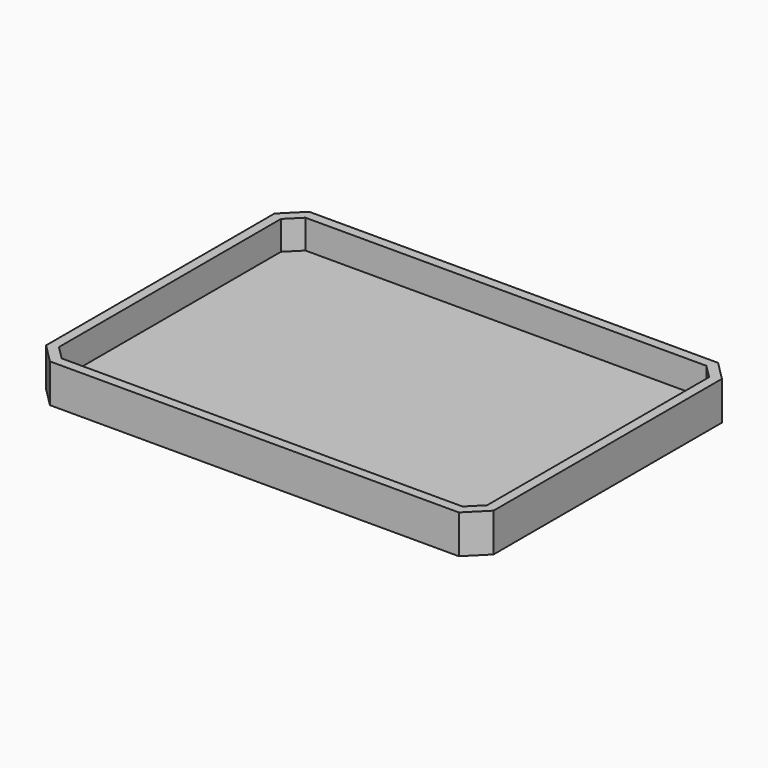
from build123d import *

# Parameters (mm, degrees)
F0_W     = 116
F0_H     = 84
F1_DEPTH = 10
F2_SIZE  = 5
F3_T     = -2.5


with BuildPart() as f1:
    # F0 (on Top) → F1 (new body)
    with BuildSketch(Plane.XY):
        with Locations((-2.746954, 0.195384)):
            Rectangle(F0_W, F0_H)
    extrude(amount=-F1_DEPTH)

    # F2
    f2_edges = [f1.edges().sort_by_distance(p)[0] for p in [
        (55.253046, -41.804616, -5),
        (-60.746954, -41.804616, -5),
        (55.253046, 42.195384, -5),
        (-60.746954, 42.195384, -5),
    ]]
    chamfer(f2_edges, length=F2_SIZE)

    # F3
    f3_openings = [f1.faces().sort_by_distance(p)[0] for p in [
        (-2.746954, 0.195384, 0),
    ]]
    offset(amount=F3_T, openings=f3_openings)


solid = f1.part
